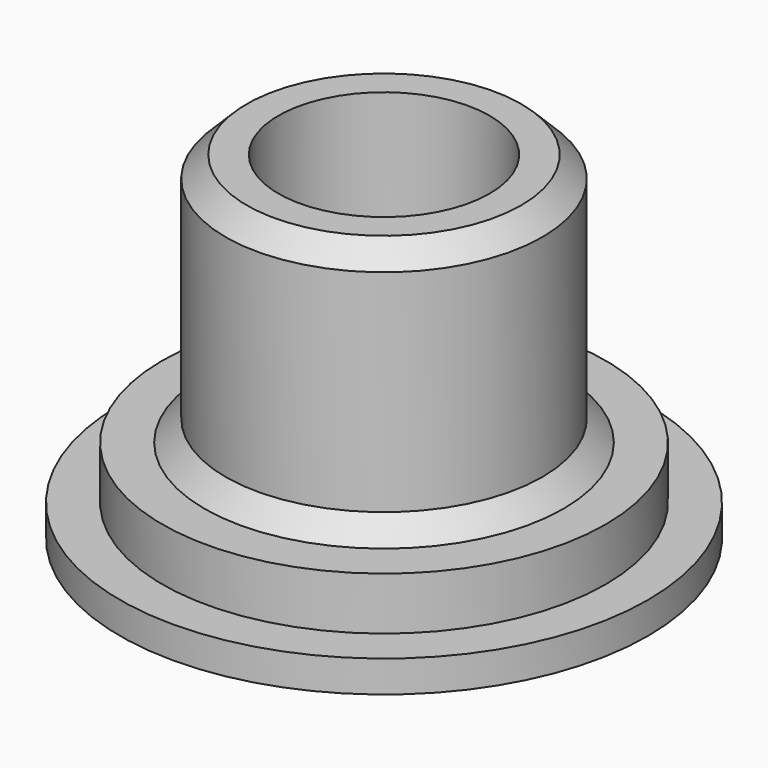
from build123d import *

# Parameters (mm, degrees)
F0_R     = 7.5
F0_R_2   = 5
F0_R_3   = 12.5
F0_R_4   = 10.5
F1_DEPTH = 1.5
F2_DEPTH = 4
F3_DEPTH = 16
F4_SIZE  = 1


with BuildPart() as f1:
    # F0 (on Top) → F1 (new body)
    with BuildSketch(Plane.XY):
        Circle(F0_R)
        Circle(F0_R_2, mode=Mode.SUBTRACT)
        Circle(F0_R_3)
        Circle(F0_R_4, mode=Mode.SUBTRACT)
        Circle(F0_R_4)
        Circle(F0_R, mode=Mode.SUBTRACT)
    extrude(amount=F1_DEPTH)

    # F0 (on Top) → F2 (join)
    with BuildSketch(Plane.XY):
        Circle(F0_R)
        Circle(F0_R_2, mode=Mode.SUBTRACT)
        Circle(F0_R_4)
        Circle(F0_R, mode=Mode.SUBTRACT)
    extrude(amount=F2_DEPTH)

    # F0 (on Top) → F3 (join)
    with BuildSketch(Plane.XY):
        Circle(F0_R)
        Circle(F0_R_2, mode=Mode.SUBTRACT)
    extrude(amount=F3_DEPTH)

    # F4
    f4_edges = [f1.edges().sort_by_distance(p)[0] for p in [
        (-7.5, 0, 16),
        (-7.5, 0, 4),
    ]]
    chamfer(f4_edges, length=F4_SIZE)


solid = f1.part
